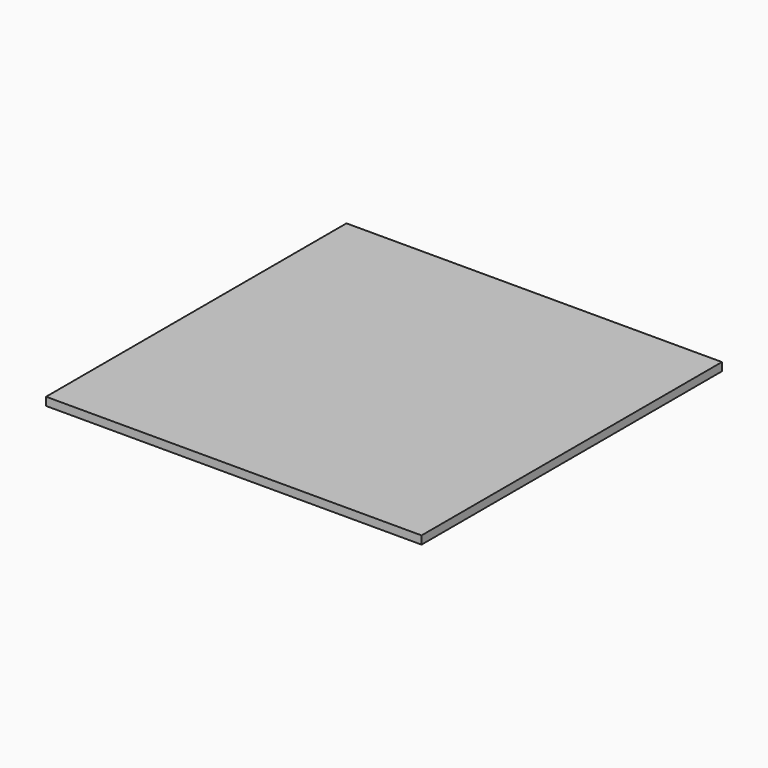
from build123d import *

# Parameters (mm, degrees)
SKETCH_W  = 230
SKETCH_H  = 230
PAD_DEPTH = 5


with BuildPart() as part:
    # Sketch → Pad (new body)
    with BuildSketch(Plane.XY):
        Rectangle(SKETCH_W, SKETCH_H)
    extrude(amount=PAD_DEPTH)


solid = part.part
